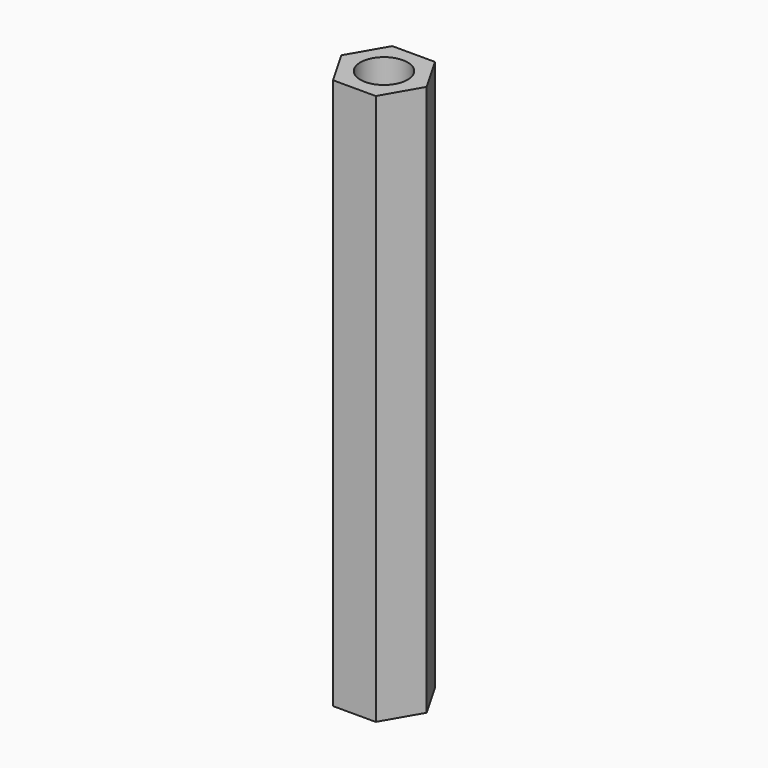
from build123d import *

# Parameters (mm, degrees)
SKETCH_R  = 1.5
PAD_DEPTH = 35


with BuildPart() as part:
    # Sketch → Pad (new body)
    with BuildSketch(Plane.XY):
        Polygon((1.356773, -2.35), (2.713546, 0), (1.356773, 2.35), (-1.356773, 2.35), (-2.713546, 0), (-1.356773, -2.35), align=None)
        Circle(SKETCH_R, mode=Mode.SUBTRACT)
    extrude(amount=PAD_DEPTH)


solid = part.part
